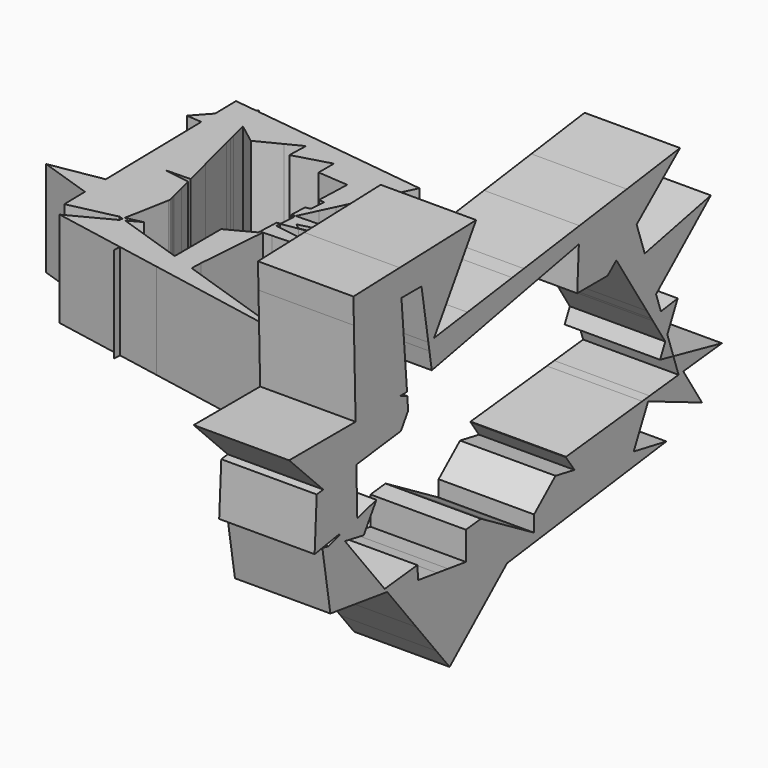
from build123d import *

# Parameters (mm, degrees)
F1_DEPTH = 25.4
F3_DEPTH = 25.4


with BuildPart() as f1:
    # F0 (on Right) → F1 (new body)
    with BuildSketch(Plane.YZ):
        Polygon((-35.1252585552, 51.3799288747), (-50.5132265389, 50.8819371462), (-50.3456898505, 44.0608076751), (-34.5287664542, 44.0608076751), align=None)
        Polygon((-34.5287664542, 44.0608076751), (-50.3456898505, 44.0608076751), (-49.9411379957, 27.5897850828), (-34.9518819309, 21.2648387897), (-33.2002557497, 21.2678745751), (-32.6795669316, 21.3706238402), align=None)
        Polygon((-9.686603069, 52.2031850727), (-35.1252585552, 51.3799288747), (-34.5287664542, 44.0608076751), (-27.8612160515, 44.0608076751), (-14.8771211978, 44.0608076751), align=None)
        Polygon((-34.9518819309, 21.2648387897), (-49.9411379957, 27.5897850828), (-49.7851568524, 21.2391308843), align=None)
        Polygon((-34.9518819309, 21.2648387897), (-49.7851568524, 21.2391308843), (-49.5362005553, 11.1030636632), (-34.712460395, 12.9450667132), (-32.3011752994, 16.7276550357), (-32.5897124838, 20.2680851934), (-34.3986456936, 21.0313922815), align=None)
        Polygon((-49.5362005553, 11.1030636632), (-49.7851568524, 21.2391308843), (-71.898393333, 21.2008059025), (-60.5491733921, 9.7345878713), align=None)
        Polygon((-14.8771211978, 44.0608076751), (-27.8612160515, 44.0608076751), (-25.5772952888, 29.9966620096), (-23.6758996407, 30.2581442525), align=None)
        Polygon((-49.2242282237, -1.5986537082), (-49.5362005553, 11.1030636632), (-60.5491733921, 9.7345878713), (-62.7125592738, 9.4657647976), (-63.4180679917, -4.2439229071), (-55.2474492867, -2.8880290636), (-51.8905517703, -2.3309602735), align=None)
        Polygon((-23.6758996407, 30.2581442525), (-25.5772952888, 29.9966620096), (-25.2251038829, 27.8279040929), align=None)
        Polygon((-12.586036919, 31.7832356667), (-23.6758996407, 30.2581442525), (-25.2251038829, 27.8279040929), (-24.4405112005, 22.9964642492), (-8.6578721552, 26.1109051705), align=None)
        Polygon((-42.8713748306, 0.1461593901), (-49.2242282237, -1.5986537082), (-51.8905517703, -2.3309602735), (-55.0085702312, -3.1873249832), (-53.3373379606, -5.281242335), (-47.0808906985, -6.4573175668), align=None)
        Polygon((2.2985997352, 33.8301890092), (-12.586036919, 31.7832356667), (-8.6578721552, 26.1109051705), (2.9988115703, 28.4111575362), align=None)
        Polygon((-55.0085702312, -3.1873249832), (-51.8905517703, -2.3309602735), (-55.2474492867, -2.8880290636), align=None)
        Polygon((6.185222646, 34.3646821206), (2.2985997352, 33.8301890092), (2.9988115703, 28.4111575362), (5.5027968206, 28.905277316), align=None)
        Polygon((-53.3373379606, -5.281242335), (-55.0085702312, -3.1873249832), (-58.8556365518, -4.2439229071), align=None)
        Polygon((24.695322595, 36.9102135863), (6.185222646, 34.3646821206), (5.5027968206, 28.905277316), (16.4590007686, 31.0673016657), (24.4869443124, 32.6514826011), align=None)
        Polygon((-53.3373379606, -5.281242335), (-58.8556365518, -4.2439229071), (-60.837097466, -3.8714515977), (-58.1726255324, -20.2789916522), (-56.0766591405, -20.5689996414), (-49.4422081098, -10.1615214712), align=None)
        Polygon((-40.1153783118, -21.8472764048), (-49.4422081098, -10.1615214712), (-56.0766591405, -20.5689996414), (-43.9134940963, -22.2519536484), align=None)
        Polygon((40.4239413321, 39.0732323717), (24.695322595, 36.9102135863), (24.4869443124, 32.6514826011), (23.9347932991, 21.3668967023), (34.0450421947, 21.3844190177), (36.9654835903, 23.8233868785), (43.7069025946, 29.4533934634), align=None)
        Polygon((-28.9557540551, -24.3215784907), (-29.2517367647, -20.6897897019), (-40.1153783118, -21.8472764048), (-39.2807814195, -22.8929580526), align=None)
        Polygon((-39.2807814195, -22.8929580526), (-40.1153783118, -21.8472764048), (-43.9134940963, -22.2519536484), align=None)
        Polygon((58.1436741751, 41.5100715914), (40.4239413321, 39.0732323717), (43.7069025946, 29.4533934634), align=None)
        Polygon((-22.6943148866, -25.1879413247), (-28.9557540551, -24.3215784907), (-39.2807814195, -22.8929580526), (-29.567356439, -35.0630851318), align=None)
        Polygon((46.4020770466, 21.5559064132), (43.7069025946, 29.4533934634), (36.9654835903, 23.8233868785), (39.3572742776, 20.0511911674), align=None)
        Polygon((-19.0477636245, -25.6924956932), (-22.6943148866, -25.1879413247), (-29.567356439, -35.0630851318), (-22.976403921, -43.3210095898), (-21.1809348521, -35.2644177302), align=None)
        Polygon((50.1744920169, 10.5018544741), (46.4020770466, 21.5559064132), (39.3572742776, 20.0511911674), (47.098958792, 7.841448368), align=None)
        Polygon((68.3802884216, 26.250281943), (46.4020770466, 21.5559064132), (50.1744920169, 10.5018544741), align=None)
        Polygon((-8.0808041721, -18.4340936852), (-13.0891939625, -18.9677218025), (-13.0891939625, -26.5169520458), (-19.0477636245, -25.6924956932), (-21.1809348521, -35.2644177302), (0.5933657301, -32.3869460924), (6.6504204852, -27.1474561319), (-3.9427678647, -20.8816980767), align=None)
        Polygon((-21.1809348521, -35.2644177302), (-22.976403921, -43.3210095898), (-18.5124821259, -48.9139385131), (0.5933657301, -32.3869460924), align=None)
        Polygon((51.7801936747, 5.7967757214), (50.1744920169, 10.5018544741), (47.098958792, 7.841448368), (48.6776843287, 5.35157259), align=None)
        Polygon((52.2875571185, 4.3100830051), (51.7801936747, 5.7967757214), (48.6776843287, 5.35157259), (49.1053946696, 4.6770122607), align=None)
        Polygon((57.3712195486, 6.5990753922), (51.7801936747, 5.7967757214), (52.2875571185, 4.3100830051), (56.0395650092, 3.8774459275), align=None)
        Polygon((6.6504204852, -27.1474561319), (0.5933657301, -32.3869460924), (9.5864515752, -31.1985107001), (9.5864515752, -28.8840872427), align=None)
        Polygon((56.0395650092, 3.8774459275), (52.2875571185, 4.3100830051), (53.9162118451, -0.4622535699), align=None)
        Polygon((53.9162118451, -0.4622535699), (52.2875571185, 4.3100830051), (49.1053946696, 4.6770122607), (53.2401218059, -1.8440433037), align=None)
        Polygon((9.5864515752, -28.8840872427), (9.5864515752, -31.1985107001), (29.2318089761, -28.6023786901), (23.0218477934, -19.6350989768), (16.707228561, -18.448088687), (9.5864515752, -24.6077225416), align=None)
        Polygon((55.7254644137, -5.7637837623), (53.9162118451, -0.4622535699), (53.2401218059, -1.8440433037), align=None)
        Polygon((22.1449199615, -15.213638222), (20.2077771029, -15.4200346767), (20.1421641431, -15.4767913774), (23.0218477934, -19.6350989768), (42.7231810936, -23.3385186905), (47.5197430912, -13.5353271902), (45.5797759302, -12.7167283184), align=None)
        Polygon((23.0218477934, -19.6350989768), (29.2318089761, -28.6023786901), (40.9022490908, -27.0601311996), (42.7231810936, -23.3385186905), align=None)
        Polygon((55.7254644137, -5.7637837623), (53.2401218059, -1.8440433037), (51.5009235027, -5.3986088511), (55.9310969094, -6.3663347292), align=None)
        Polygon((56.1358797792, -6.4110674438), (55.7254644137, -5.7637837623), (55.9310969094, -6.3663347292), align=None)
        Polygon((42.7231810936, -23.3385186905), (40.9022490908, -27.0601311996), (53.5968823886, -25.3825366827), align=None)
        Polygon((48.048996927, -12.4536406182), (45.5797759302, -12.7167283184), (47.5197430912, -13.5353271902), align=None)
        Polygon((57.6590767513, -11.4297169585), (48.048996927, -12.4536406182), (47.5197430912, -13.5353271902), (65.4504395839, -21.1014593467), (59.2130151912, -11.2641497246), align=None)
        Polygon((56.1358797792, -6.4110674438), (55.9310969094, -6.3663347292), (57.6590767513, -11.4297169585), (59.2130151912, -11.2641497246), align=None)
        Polygon((72.0778964661, -9.8934372479), (56.1358797792, -6.4110674438), (59.2130151912, -11.2641497246), align=None)
    extrude(amount=F1_DEPTH)


with BuildPart() as f3:
    # F2 (on Top) → F3 (new body)
    with BuildSketch(Plane.XY):
        Polygon((-73.3048250436, 40.4231154817), (-79.1885092285, 41.1637190248), (-79.0521428181, 34.0726832507), align=None)
        Polygon((-73.3048250436, 40.4231154817), (-79.0521428181, 34.0726832507), (-78.9608677003, 29.3263888831), (-69.8320155415, 28.6315065827), (-70.9724156684, 33.1837443502), (-72.7690872615, 40.3556799622), align=None)
        Polygon((-78.9608677003, 29.3263888831), (-79.0521428181, 34.0726832507), (-83.0649410696, 29.6387882839), align=None)
        Polygon((-72.8984629572, 40.8721205641), (-73.3048250436, 40.4231154817), (-72.7690872615, 40.3556799622), align=None)
        Polygon((-69.8320155415, 28.6315065827), (-78.9608677003, 29.3263888831), (-78.8280788203, 22.421384228), (-69.4656732816, 27.1691452304), align=None)
        Polygon((-59.6020538961, 38.6982912825), (-72.7690872615, 40.3556799622), (-70.9724156684, 33.1837443502), (-65.6198889344, 29.1193774514), (-59.3545650692, 32.2965801683), align=None)
        Polygon((-66.447364466, 15.120690429), (-78.8280788203, 22.421384228), (-78.5665198761, 8.8203528237), (-71.3174983191, 7.7099994401), (-64.631222944, 7.8710349504), align=None)
        Polygon((-68.9803964836, 25.2320221844), (-78.8280788203, 22.421384228), (-66.447364466, 15.120690429), align=None)
        Polygon((-69.4656732816, 27.1691452304), (-78.8280788203, 22.421384228), (-68.9803964836, 25.2320221844), align=None)
        Polygon((-33.3682258282, 35.3961313762), (-59.6020538961, 38.6982912825), (-59.3545650692, 32.2965801683), (-55.1796050456, 34.4137403688), (-55.3409416016, 29.1248741556), (-45.711734143, 31.8731569544), align=None)
        Polygon((-71.3174983191, 7.7099994401), (-78.5665198761, 8.8203528237), (-78.5418208248, 7.5360053409), align=None)
        Polygon((-24.916050287, 34.3322212552), (-33.3682258282, 35.3961313762), (-45.711734143, 31.8731569544), (-45.6966635825, 26.7943392587), (-37.5874014103, 26.1770674862), (-29.1028415826, 25.5312282997), align=None)
        Polygon((-71.3174983191, 7.7099994401), (-78.5418208248, 7.5360053409), (-78.4147364712, 0.9276353234), (-63.5273652855, 3.4646670413), (-64.3224681443, 6.6385506437), (-66.7362167161, 7.0082714222), align=None)
        Polygon((-63.5273652855, 3.4646670413), (-78.4147364712, 0.9276353234), (-78.341993113, -2.8550099304), (-62.5918751525, -0.269613072), align=None)
        Polygon((-33.1910798741, 16.9374021776), (-29.1028415826, 25.5312282997), (-37.5874014103, 26.1770674862), (-37.9220166568, 17.1120340292), (-36.4609942622, 17.0581036857), align=None)
        Polygon((-62.5918751525, -0.269613072), (-78.341993113, -2.8550099304), (-78.3346498994, -3.2368560913), (-62.5235369316, -0.5424048954), align=None)
        Polygon((-34.8715572541, 13.4048951719), (-33.1910798741, 16.9374021776), (-36.4609942622, 17.0581036857), (-36.7680534689, 13.0241858553), align=None)
        Polygon((-62.5235369316, -0.5424048954), (-78.3346498994, -3.2368560913), (-78.198072885, -10.3388432482), (-65.5415709644, -14.5743852638), (-64.4099579196, -14.3234846527), (-62.1924928325, -2.4970014613), (-62.1245968964, -2.134889719), (-62.3649807141, -1.1753280112), align=None)
        Polygon((-78.198072885, -10.3388432482), (-78.3346498994, -3.2368560913), (-92.3055896237, -5.6177141198), align=None)
        Polygon((-37.0948164425, 8.7314144382), (-34.8715572541, 13.4048951719), (-36.7680534689, 13.0241858553), align=None)
        Polygon((-65.5415709644, -14.5743852638), (-78.198072885, -10.3388432482), (-78.0632295289, -17.3506803944), align=None)
        Polygon((-37.0948164425, 8.7314144382), (-36.7680534689, 13.0241858553), (-38.0826515073, 12.760288824), (-38.239664536, 8.5066620878), (-37.189705366, 8.5319498154), align=None)
        Polygon((-37.1098531675, 8.5338730146), (-37.0948164425, 8.7314144382), (-37.189705366, 8.5319498154), align=None)
        Polygon((-64.4099579196, -14.3234846527), (-65.5415709644, -14.5743852638), (-64.5210376922, -14.9159102428), align=None)
        Polygon((-33.2332528203, 8.6272389441), (-37.1098531675, 8.5338730146), (-37.1536004971, 7.9591528007), align=None)
        Polygon((-37.1536004971, 7.9591528007), (-37.1098531675, 8.5338730146), (-37.189705366, 8.5319498154), (-37.4894199689, 7.9019241173), align=None)
        Polygon((-63.6257607996, -15.2155177424), (-64.5210376922, -14.9159102428), (-64.6809750119, -15.768909478), align=None)
        Polygon((-64.4099579196, -14.3234846527), (-64.5210376922, -14.9159102428), (-63.6257607996, -15.2155177424), (-60.1046227747, -13.3689081533), align=None)
        Polygon((-33.2332528203, 8.6272389441), (-37.1536004971, 7.9591528007), (-37.1863607729, 7.528772412), (-34.7444723688, 5.6745583382), (-21.72043717, 8.9045191995), align=None)
        Polygon((-63.6257607996, -15.2155177424), (-64.6809750119, -15.768909478), (-66.1228630865, -23.4589809821), (-57.133908291, -25.1444096177), (-57.4376983143, -17.2863741935), align=None)
        Polygon((-66.1228630865, -23.4589809821), (-64.6809750119, -15.768909478), (-75.8623622972, -21.6328253011), align=None)
        Polygon((-34.7444723688, 5.6745583382), (-37.1863607729, 7.528772412), (-37.3772019601, 5.0216413729), align=None)
        Polygon((-56.7635956652, -17.5119649698), (-57.4376983143, -17.2863741935), (-57.133908291, -25.1444096177), (-56.9972048443, -25.170041508), align=None)
        Polygon((-34.7444723688, 5.6745583382), (-37.3772019601, 5.0216413729), (-37.4660196432, 3.8548200316), (-33.2577231035, 4.5456159152), align=None)
        Polygon((-56.9972048443, -25.170041508), (-57.133908291, -25.1444096177), (-57.0570605298, -27.132205078), align=None)
        Polygon((-45.5540604774, -21.2632745781), (-56.7635956652, -17.5119649698), (-56.9972048443, -25.170041508), (-45.5360911036, -27.318999839), align=None)
        Polygon((-37.4758175145, 3.7261028102), (-37.4660196432, 3.8548200316), (-38.4171398708, 3.6986927407), (-38.4220805443, 3.5648453733), align=None)
        Polygon((-33.2577231035, 4.5456159152), (-37.4660196432, 3.8548200316), (-37.4758175145, 3.7261028102), (-33.1494291315, 4.4633843903), align=None)
        Polygon((-17.184081893, 7.1841194231), (-33.2577231035, 4.5456159152), (-33.1494291315, 4.4633843903), align=None)
        Polygon((-39.4143976558, -23.3179339149), (-45.5540604774, -21.2632745781), (-45.5360911036, -27.318999839), (-4.4245165773, -35.0274182856), align=None)
        Polygon((-45.5870370722, -10.1500771745), (-45.5540604774, -21.2632745781), (-39.4143976558, -23.3179339149), (-39.3014238024, -20.2573687664), (-38.6314669501, -2.1076241106), (-45.6000573799, -5.7621999376), align=None)
        Polygon((-37.566087723, 2.5401992594), (-37.4758175145, 3.7261028102), (-38.4220805443, 3.5648453733), (-38.4474864724, 2.8765755147), (-38.2989177073, 2.652448926), align=None)
        Polygon((-37.8902894479, -1.718924357), (-38.6314669501, -2.1076241106), (-39.3014238024, -20.2573687664), align=None)
        Polygon((-38.6121899244, -1.5853918306), (-38.6314669501, -2.1076241106), (-37.8902894479, -1.718924357), (-38.1472210355, -1.5674162295), align=None)
        Polygon((-16.2707093139, -0.7216748135), (-37.566087723, 2.5401992594), (-37.633907459, 1.6492334896), (-35.5677617194, -1.4676948662), align=None)
        Polygon((-37.633907459, 1.6492334896), (-37.566087723, 2.5401992594), (-38.2989177073, 2.652448926), align=None)
        Polygon((-38.1472210355, -1.5674162295), (-37.8902894479, -1.718924357), (-37.8779643904, -1.5570068234), align=None)
        Polygon((-38.4548777963, 2.6763377793), (-38.6016352488, -1.2994560025), (-38.1472210355, -1.5674162295), (-37.8779643904, -1.5570068234), (-37.633907459, 1.6492334896), (-38.2989177073, 2.652448926), align=None)
        Polygon((-35.5677617194, -1.4676948662), (-37.633907459, 1.6492334896), (-37.8779643904, -1.5570068234), align=None)
    extrude(amount=F3_DEPTH)


solid = Compound([f1.part, f3.part])
